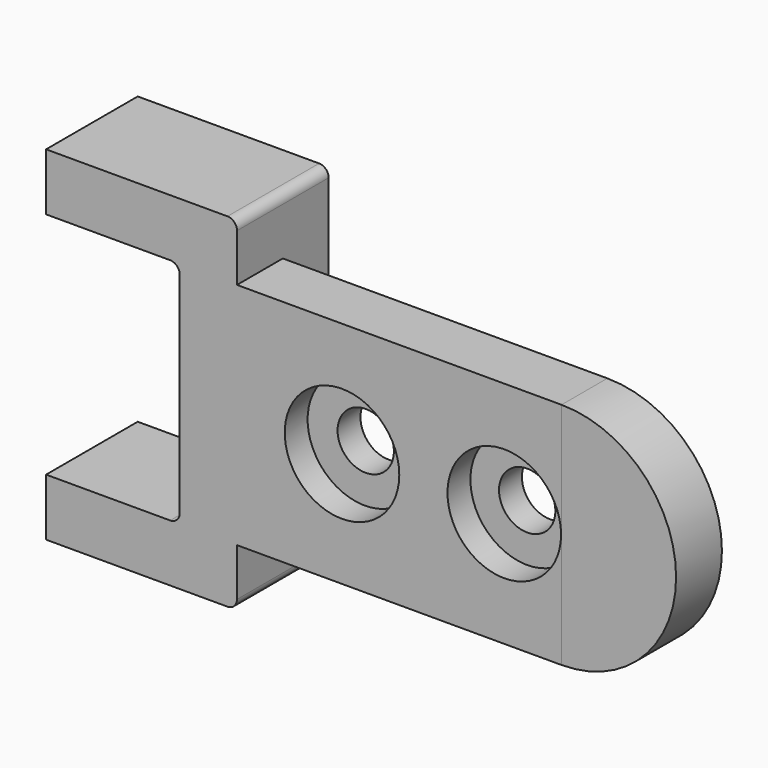
from build123d import *

# Parameters (mm, degrees)
F0_W      = 20
F0_H      = 36
F1_DEPTH  = 12
F2_W      = 12
F2_H      = 24
F3_DEPTH  = 14
F4_W      = 6
F4_H      = 23.901319
F5_DEPTH  = 34
F7_W      = 6
F7_H      = 24
F8_DEPTH  = 34
F10_DEPTH = 6
F11_R     = 6
F12_DEPTH = 3
F14_DEPTH = 3
F16_D     = 5.9
F17_R     = 1


with BuildPart() as f1:
    # F0 (on Front) → F1 (new body)
    with BuildSketch(Plane.XZ):
        with Locations((-31.743424, -5.092108)):
            Rectangle(F0_W, F0_H)
    extrude(amount=F1_DEPTH)

    # F2 (on face) → F3 (cut)
    with BuildSketch(Plane(origin=(-41.743424, 0, 0), x_dir=(0, -1, 0), z_dir=(-1, 0, 0))):
        with Locations((6, -5.092108)):
            Rectangle(F2_W, F2_H)
    extrude(amount=-F3_DEPTH, mode=Mode.SUBTRACT)

    # F7 (on face) → F8 (join)
    with BuildSketch(Plane.YZ.offset(-21.743424)):
        with Locations((-9, -5.092108)):
            Rectangle(F7_W, F7_H)
    extrude(amount=F8_DEPTH)

    # F11 (on face) → F12 (cut)
    with BuildSketch(Plane.XZ.offset(12)):
        with Locations((-10.743424, -5.092108)):
            Circle(F11_R)
    extrude(amount=-F12_DEPTH, mode=Mode.SUBTRACT)

    # F13 (on face) → F14 (cut)
    with BuildSketch(Plane.XZ.offset(12)):
        with BuildLine():
            ThreePointArc((0.306576, -5.092108), (6.256576, -11.042108), (12.206576, -5.092108))
            ThreePointArc((12.206576, -5.092108), (6.256576, 0.857892), (0.306576, -5.092108))
        make_face()
    extrude(amount=-F14_DEPTH, mode=Mode.SUBTRACT)

    # F16 (through all)
    with Locations(Plane.XZ.offset(9)):
        with Locations((6.256576, -5.092108), (-10.657895, -5.092108)):
            Hole(F16_D / 2)

    # F17
    f17_edges = [f1.edges().sort_by_distance(p)[0] for p in [
        (-27.743424, -6, 6.907892),
        (-27.743424, -6, -17.092108),
        (-21.743424, -6, 12.907892),
        (-21.743424, -6, -23.092108),
    ]]
    fillet(f17_edges, radius=F17_R)


with BuildPart() as f5:
    # F4 (on Right) → F5 (new body)
    with BuildSketch(Plane.YZ):
        with Locations((-9.138158, -5.141449)):
            Rectangle(F4_W, F4_H)
    extrude(amount=F5_DEPTH)


with BuildPart() as f10:
    # F9 (on face) → F10 (new body)
    with BuildSketch(Plane(origin=(0, -6, 0), x_dir=(-1, 0, 0), z_dir=(0, 1, 0))):
        with BuildLine():
            Line((-12.256576, -17.092108), (-12.256576, 6.907892))
            ThreePointArc((-12.256576, 6.907892), (-24.256576, -5.092108), (-12.256576, -17.092108))
        make_face()
    extrude(amount=-F10_DEPTH)


solid = Compound([f1.part, f10.part])
